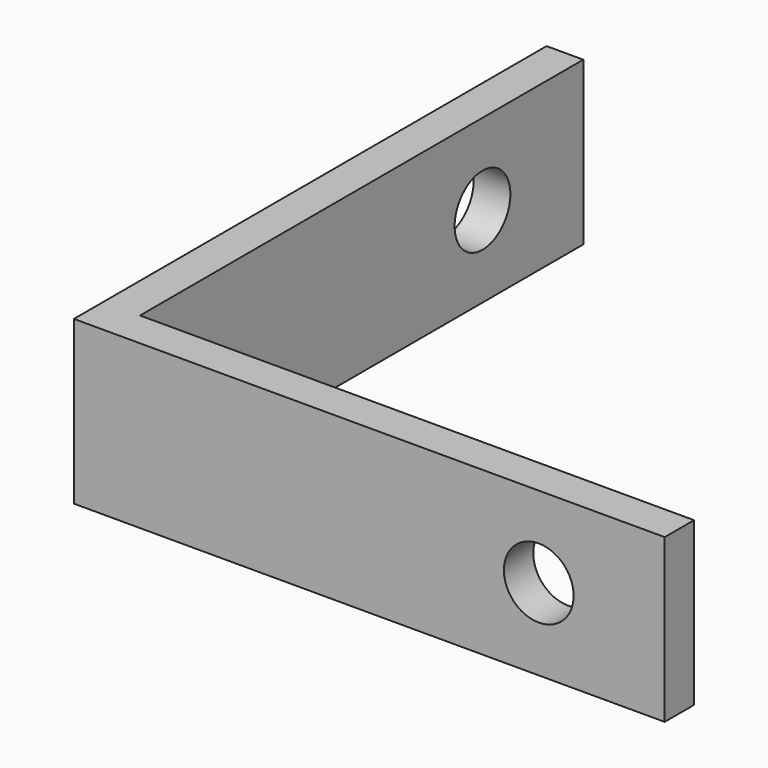
from build123d import *

# Parameters (mm, degrees)
F0_W     = 23.84
F0_H     = 1.58
F1_DEPTH = 7
F2_R     = 1.5
F3_DEPTH = 25
F4_R     = 1.5
F5_DEPTH = 25


with BuildPart() as f1:
    # F0 (on Top) → F1 (new body)
    with BuildSketch(Plane.XY):
        Polygon((0, 25.42), (0, 0), (1.58, 0), (1.58, 1.58), (1.58, 25.42), align=None)
        with Locations((13.5, 0.79)):
            Rectangle(F0_W, F0_H)
    extrude(amount=F1_DEPTH)

    # F2 (on face) → F3 (cut)
    with BuildSketch(Plane(origin=(0, 0, 0), x_dir=(0, -1, 0), z_dir=(-1, 0, 0))):
        with Locations((-20, 3.5)):
            Circle(F2_R)
    extrude(amount=-F3_DEPTH, mode=Mode.SUBTRACT)

    # F4 (on face) → F5 (cut)
    with BuildSketch(Plane.XZ):
        with Locations((20, 3.5)):
            Circle(F4_R)
    extrude(amount=-F5_DEPTH, mode=Mode.SUBTRACT)


solid = f1.part
